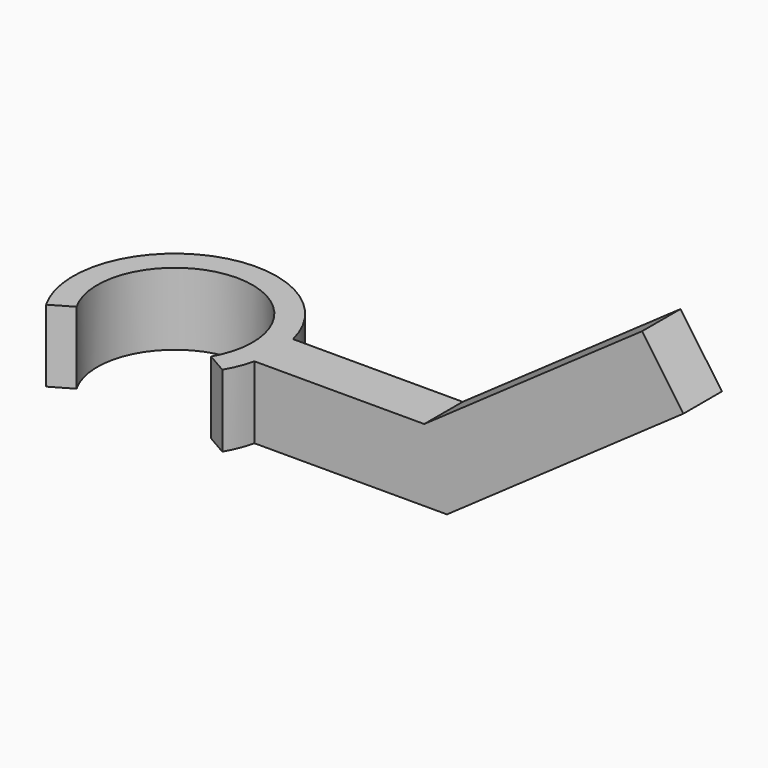
from build123d import *

# Parameters (mm, degrees)
F2_DEPTH  = 15
F11_W     = 60
F11_H     = 10
F12_DEPTH = 15


with BuildPart() as f2:
    # F1 (on Top) → F2 (new body)
    with BuildSketch(Plane.XY):
        with BuildLine():
            ThreePointArc((-13.9863102711, -8.075), (0, 16.15), (13.9863102711, -8.075))
            Line((13.9863102711, -8.075), (18.31643729, -10.575))
            ThreePointArc((18.31643729, -10.575), (19.6323610311, -7.8672040995), (20.5504866122, -5))
            ThreePointArc((20.5504866122, -5), (21.15, 0), (20.5504866122, 5))
            ThreePointArc((20.5504866122, 5), (-7.8672040995, 19.6323610311), (-18.31643729, -10.575))
            Line((-18.31643729, -10.575), (-13.9863102711, -8.075))
        make_face()
        with BuildLine():
            ThreePointArc((20.5504866122, 5), (21.15, 0), (20.5504866122, -5))
            Line((20.5504866122, -5), (60.5504866122, -5))
            Line((60.5504866122, -5), (60.5504866122, 5))
            Line((60.5504866122, 5), (20.5504866122, 5))
        make_face()
    extrude(amount=F2_DEPTH)

    # F11 (on 3pt) → F12 (join)
    with BuildSketch(Plane(origin=(19.9205002513, 0, -28.4494227273), x_dir=(0.8191520443, 0, 0.5735764364), z_dir=(-0.5735764364, 0, 0.8191520443))):
        with Locations((79.6000548911, 0)):
            Rectangle(F11_W, F11_H)
    extrude(amount=F12_DEPTH)


solid = f2.part
